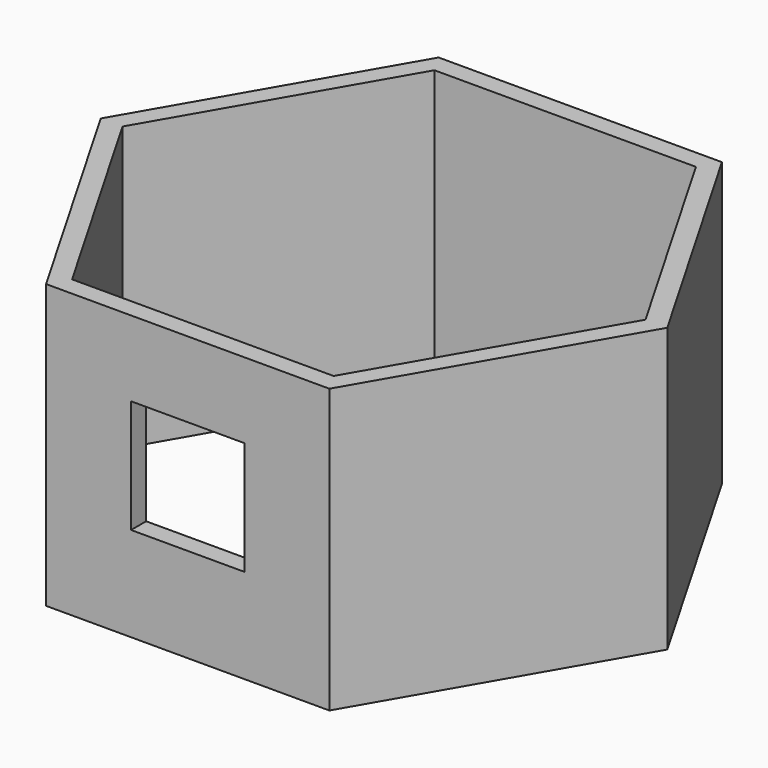
from build123d import *

# Parameters (mm, degrees)
F2_DEPTH = 76.2
F3_W     = 30.48
F3_H     = 30.48
F4_DEPTH = 5.08


with BuildPart() as f2:
    # F0 (on Top) → F2 (new body)
    with BuildSketch(Plane.XY):
        Polygon((-30.320511, 87.794254), (-68.420511, 21.803118), (-30.320511, -44.188018), (45.879489, -44.188018), (83.979489, 21.803118), (45.879489, 87.794254), align=None)
        Polygon((-27.387572, -39.108018), (-62.554632, 21.803118), (-27.387572, 82.714254), (42.94655, 82.714254), (78.11361, 21.803118), (42.94655, -39.108018), (-7.85345, -39.108018), align=None, mode=Mode.SUBTRACT)
    extrude(amount=F2_DEPTH)

    # F3 (on face) → F4 (cut)
    with BuildSketch(Plane.XZ.offset(44.188018)):
        with Locations((7.779489, 40.64)):
            Rectangle(F3_W, F3_H)
    extrude(amount=-F4_DEPTH, mode=Mode.SUBTRACT)


solid = f2.part
